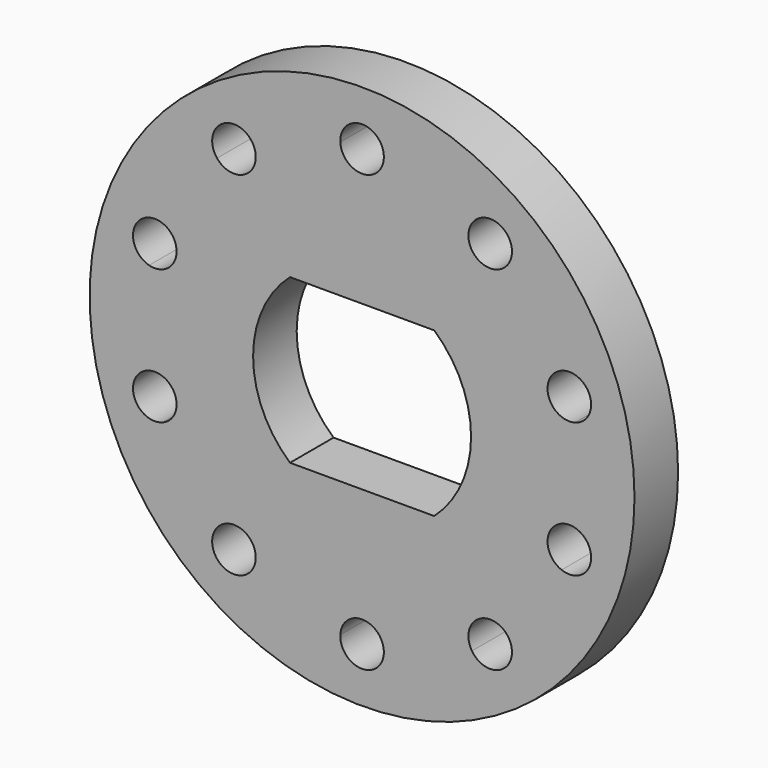
from build123d import *

# Parameters (mm, degrees)
F0_R     = 50
F0_R_2   = 25
F1_DEPTH = 10


with BuildPart() as f1:
    # F0 (on Front) → F1 (new body)
    with BuildSketch(Plane.XZ):
        Circle(F0_R)
        with BuildLine():
            ThreePointArc((-20.1618326801, 34.5470766199), (-12.360679775, 38.0422606518), (-3.9949968711, 39.8))
            ThreePointArc((-3.9949968711, 39.8), (-0.1000312842, 43.9987490222), (4, 40))
            ThreePointArc((4, 40), (3.9987490222, 39.8999687158), (3.9949968711, 39.8))
            ThreePointArc((3.9949968711, 39.8), (12.360679775, 38.0422606518), (20.1618326801, 34.5470766199))
            ThreePointArc((20.1618326801, 34.5470766199), (24.6519560911, 36.1946274563), (27.5114100917, 32.360679775))
            ThreePointArc((27.5114100917, 32.360679775), (27.2835350395, 31.0298629662), (26.6258734024, 29.8506761323))
            ThreePointArc((26.6258734024, 29.8506761323), (32.360679775, 23.5114100917), (36.6175274229, 16.0983441829))
            ThreePointArc((36.6175274229, 16.0983441829), (40.3117393457, 15.6545326038), (42.0422606518, 12.360679775))
            ThreePointArc((42.0422606518, 12.360679775), (41.2185196533, 9.9293470632), (39.0865712742, 8.4994085693))
            ThreePointArc((39.0865712742, 8.4994085693), (40, 0), (39.0865712742, -8.4994085693))
            ThreePointArc((39.0865712742, -8.4994085693), (41.2185196533, -9.9293470632), (42.0422606518, -12.360679775))
            ThreePointArc((42.0422606518, -12.360679775), (40.3117393457, -15.6545326038), (36.6175274229, -16.0983441829))
            ThreePointArc((36.6175274229, -16.0983441829), (32.360679775, -23.5114100917), (26.6258734024, -29.8506761323))
            ThreePointArc((26.6258734024, -29.8506761323), (27.2835350395, -31.0298629662), (27.5114100917, -32.360679775))
            ThreePointArc((27.5114100917, -32.360679775), (24.6519560911, -36.1946274563), (20.1618326801, -34.5470766199))
            ThreePointArc((20.1618326801, -34.5470766199), (12.360679775, -38.0422606518), (3.9949968711, -39.8))
            ThreePointArc((3.9949968711, -39.8), (3.9987490222, -39.8999687158), (4, -40))
            ThreePointArc((4, -40), (-0.1000312842, -43.9987490222), (-3.9949968711, -39.8))
            ThreePointArc((-3.9949968711, -39.8), (-12.360679775, -38.0422606518), (-20.1618326801, -34.5470766199))
            ThreePointArc((-20.1618326801, -34.5470766199), (-25.8625511009, -35.5967477525), (-26.6258734024, -29.8506761323))
            ThreePointArc((-26.6258734024, -29.8506761323), (-32.360679775, -23.5114100917), (-36.6175274229, -16.0983441829))
            ThreePointArc((-36.6175274229, -16.0983441829), (-41.846486717, -13.5967477525), (-39.0865712742, -8.4994085693))
            ThreePointArc((-39.0865712742, -8.4994085693), (-40, 0), (-39.0865712742, 8.4994085693))
            ThreePointArc((-39.0865712742, 8.4994085693), (-41.846486717, 13.5967477525), (-36.6175274229, 16.0983441829))
            ThreePointArc((-36.6175274229, 16.0983441829), (-32.360679775, 23.5114100917), (-26.6258734024, 29.8506761323))
            ThreePointArc((-26.6258734024, 29.8506761323), (-25.8625511009, 35.5967477525), (-20.1618326801, 34.5470766199))
        make_face(mode=Mode.SUBTRACT)
        with BuildLine():
            ThreePointArc((3.9949968711, 39.8), (0, 36), (-3.9949968711, 39.8))
            ThreePointArc((-3.9949968711, 39.8), (-12.360679775, 38.0422606518), (-20.1618326801, 34.5470766199))
            ThreePointArc((-20.1618326801, 34.5470766199), (-19.6774624104, 33.5012257744), (-19.5114100917, 32.360679775))
            ThreePointArc((-19.5114100917, 32.360679775), (-22.1805932829, 28.5885548272), (-26.6258734024, 29.8506761323))
            ThreePointArc((-26.6258734024, 29.8506761323), (-32.360679775, 23.5114100917), (-36.6175274229, 16.0983441829))
            ThreePointArc((-36.6175274229, 16.0983441829), (-34.748407823, 14.6301584689), (-34.0422606518, 12.360679775))
            ThreePointArc((-34.0422606518, 12.360679775), (-35.6109279401, 9.1844207735), (-39.0865712742, 8.4994085693))
            ThreePointArc((-39.0865712742, 8.4994085693), (-40, 0), (-39.0865712742, -8.4994085693))
            ThreePointArc((-39.0865712742, -8.4994085693), (-35.6109279401, -9.1844207735), (-34.0422606518, -12.360679775))
            ThreePointArc((-34.0422606518, -12.360679775), (-34.748407823, -14.6301584689), (-36.6175274229, -16.0983441829))
            ThreePointArc((-36.6175274229, -16.0983441829), (-32.360679775, -23.5114100917), (-26.6258734024, -29.8506761323))
            ThreePointArc((-26.6258734024, -29.8506761323), (-22.1805932829, -28.5885548272), (-19.5114100917, -32.360679775))
            ThreePointArc((-19.5114100917, -32.360679775), (-19.6774624104, -33.5012257744), (-20.1618326801, -34.5470766199))
            ThreePointArc((-20.1618326801, -34.5470766199), (-12.360679775, -38.0422606518), (-3.9949968711, -39.8))
            ThreePointArc((-3.9949968711, -39.8), (0, -36), (3.9949968711, -39.8))
            ThreePointArc((3.9949968711, -39.8), (12.360679775, -38.0422606518), (20.1618326801, -34.5470766199))
            ThreePointArc((20.1618326801, -34.5470766199), (21.1602690825, -29.1246117975), (26.6258734024, -29.8506761323))
            ThreePointArc((26.6258734024, -29.8506761323), (32.360679775, -23.5114100917), (36.6175274229, -16.0983441829))
            ThreePointArc((36.6175274229, -16.0983441829), (34.2380345866, -11.1246117975), (39.0865712742, -8.4994085693))
            ThreePointArc((39.0865712742, -8.4994085693), (40, 0), (39.0865712742, 8.4994085693))
            ThreePointArc((39.0865712742, 8.4994085693), (34.2380345866, 11.1246117975), (36.6175274229, 16.0983441829))
            ThreePointArc((36.6175274229, 16.0983441829), (32.360679775, 23.5114100917), (26.6258734024, 29.8506761323))
            ThreePointArc((26.6258734024, 29.8506761323), (21.1602690825, 29.1246117975), (20.1618326801, 34.5470766199))
            ThreePointArc((20.1618326801, 34.5470766199), (12.360679775, 38.0422606518), (3.9949968711, 39.8))
        make_face()
        Circle(F0_R_2, mode=Mode.SUBTRACT)
        Circle(F0_R_2)
        with BuildLine():
            ThreePointArc((-13.2287565553, -15), (-20, 0), (-13.2287565553, 15))
            Line((-13.2287565553, 15), (13.2287565553, 15))
            ThreePointArc((13.2287565553, 15), (20, 0), (13.2287565553, -15))
            Line((13.2287565553, -15), (-13.2287565553, -15))
        make_face(mode=Mode.SUBTRACT)
    extrude(amount=F1_DEPTH)


solid = f1.part
